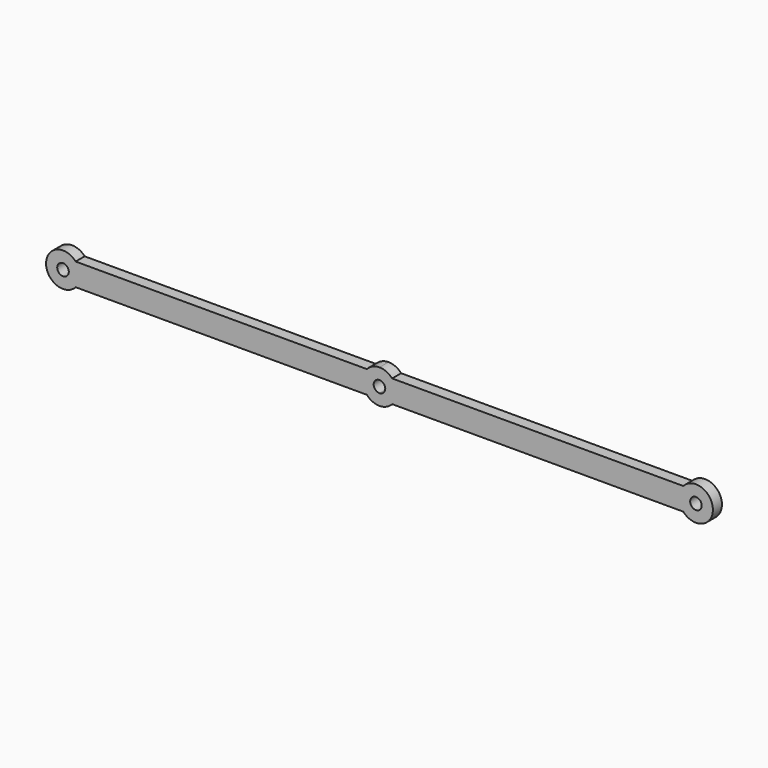
from build123d import *

# Parameters (mm, degrees)
F0_R     = 1.6256
F1_DEPTH = 3.175


with BuildPart() as f1:
    # F0 (on Front) → F1 (new body)
    with BuildSketch(Plane.XZ):
        with BuildLine():
            Line((0, -3.175), (0, 0))
            Line((0, 0), (0, 3.175))
            Line((0, 3.175), (-40.900242, 3.175))
            ThreePointArc((-40.900242, 3.175), (-42.505718, 4.347548), (-44.45, 4.7625))
            Line((-44.45, 4.7625), (-44.45, 1.6256))
            ThreePointArc((-44.45, 1.6256), (-43.300527, 1.149473), (-42.8244, 0))
            ThreePointArc((-42.8244, 0), (-43.300527, -1.149473), (-44.45, -1.6256))
            Line((-44.45, -1.6256), (-44.45, -4.7625))
            ThreePointArc((-44.45, -4.7625), (-42.505718, -4.347548), (-40.900242, -3.175))
            Line((-40.900242, -3.175), (0, -3.175))
        make_face()
        with BuildLine():
            Line((0, 3.175), (0, 0))
            Line((0, 0), (0, -3.175))
            Line((0, -3.175), (40.900242, -3.175))
            ThreePointArc((40.900242, -3.175), (49.2125, 0), (40.900242, 3.175))
            Line((40.900242, 3.175), (0, 3.175))
        make_face()
        with BuildLine():
            ThreePointArc((46.0756, 0), (44.45, -1.6256), (42.8244, 0))
            ThreePointArc((42.8244, 0), (44.45, 1.6256), (46.0756, 0))
        make_face(mode=Mode.SUBTRACT)
        with BuildLine():
            ThreePointArc((-47.999758, -3.175), (-49.2125, 0), (-47.999758, 3.175))
            Line((-47.999758, 3.175), (-88.9, 3.175))
            Line((-88.9, 3.175), (-129.800242, 3.175))
            ThreePointArc((-129.800242, 3.175), (-138.1125, 0), (-129.800242, -3.175))
            Line((-129.800242, -3.175), (-88.9, -3.175))
            Line((-88.9, -3.175), (-47.999758, -3.175))
        make_face()
        with Locations((-133.35, 0)):
            Circle(F0_R, mode=Mode.SUBTRACT)
        with BuildLine():
            Line((-44.45, 1.6256), (-44.45, 4.7625))
            ThreePointArc((-44.45, 4.7625), (-46.394282, 4.347548), (-47.999758, 3.175))
            ThreePointArc((-47.999758, 3.175), (-49.2125, 0), (-47.999758, -3.175))
            ThreePointArc((-47.999758, -3.175), (-46.394282, -4.347548), (-44.45, -4.7625))
            Line((-44.45, -4.7625), (-44.45, -1.6256))
            ThreePointArc((-44.45, -1.6256), (-46.0756, 0), (-44.45, 1.6256))
        make_face()
    extrude(amount=F1_DEPTH)


solid = f1.part
